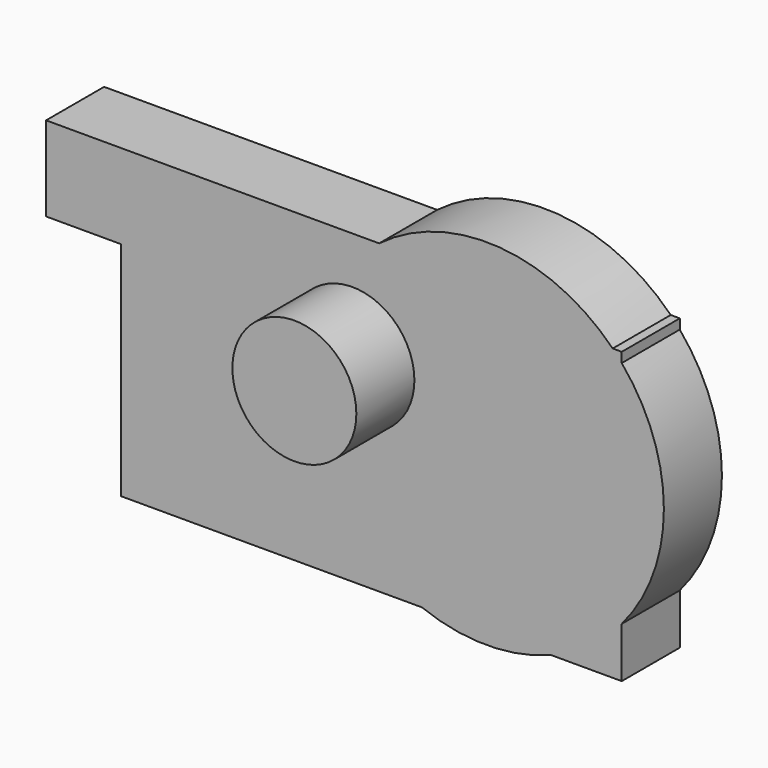
from build123d import *

# Parameters (mm, degrees)
F1_DEPTH = 50.8
F2_R     = 21.707892
F3_DEPTH = 25.4


with BuildPart() as f1:
    # F0 (on Front) → F1 (new body)
    with BuildSketch(Plane.XZ):
        with BuildLine():
            Line((-114.892647, 19.834338), (-114.892647, -57.858497))
            Line((-114.892647, -57.858497), (-9.522511, -57.858497))
            ThreePointArc((-9.522511, -57.858497), (13.101791, -62.12459), (35.726094, -57.858497))
            Line((35.726094, -57.858497), (60.469817, -57.858497))
            Line((60.469817, -57.858497), (60.469817, -40.196204))
            ThreePointArc((60.469817, -40.196204), (75.226381, 0), (60.469817, 40.196204))
            Line((60.469817, 40.196204), (60.469817, 43.659724))
            Line((60.469817, 43.659724), (57.297868, 43.659724))
            ThreePointArc((57.297868, 43.659724), (17.504625, 61.968377), (-24.477459, 49.469836))
            Line((-24.477459, 49.469836), (-141.096234, 49.469836))
            Line((-141.096234, 49.469836), (-141.096234, 19.834338))
            Line((-141.096234, 19.834338), (-114.892647, 19.834338))
        make_face()
    extrude(amount=F1_DEPTH)

    # F2 (on face) → F3 (cut)
    with BuildSketch(Plane.XZ.offset(50.8)):
        with BuildLine():
            ThreePointArc((57.297868, 43.659724), (17.504625, 61.968377), (-24.477459, 49.469836))
            Line((-24.477459, 49.469836), (-141.096234, 49.469836))
            Line((-141.096234, 49.469836), (-141.096234, 19.834338))
            Line((-141.096234, 19.834338), (-114.892647, 19.834338))
            Line((-114.892647, 19.834338), (-114.892647, -57.858497))
            Line((-114.892647, -57.858497), (-9.522511, -57.858497))
            ThreePointArc((-9.522511, -57.858497), (13.101791, -62.12459), (35.726094, -57.858497))
            Line((35.726094, -57.858497), (60.469817, -57.858497))
            Line((60.469817, -57.858497), (60.469817, -40.196204))
            ThreePointArc((60.469817, -40.196204), (75.226381, 0), (60.469817, 40.196204))
            Line((60.469817, 40.196204), (60.469817, 43.659724))
            Line((60.469817, 43.659724), (57.297868, 43.659724))
        make_face()
        with Locations((-33.841733, 11.274103)):
            Circle(F2_R, mode=Mode.SUBTRACT)
    extrude(amount=-F3_DEPTH, mode=Mode.SUBTRACT)


solid = f1.part
